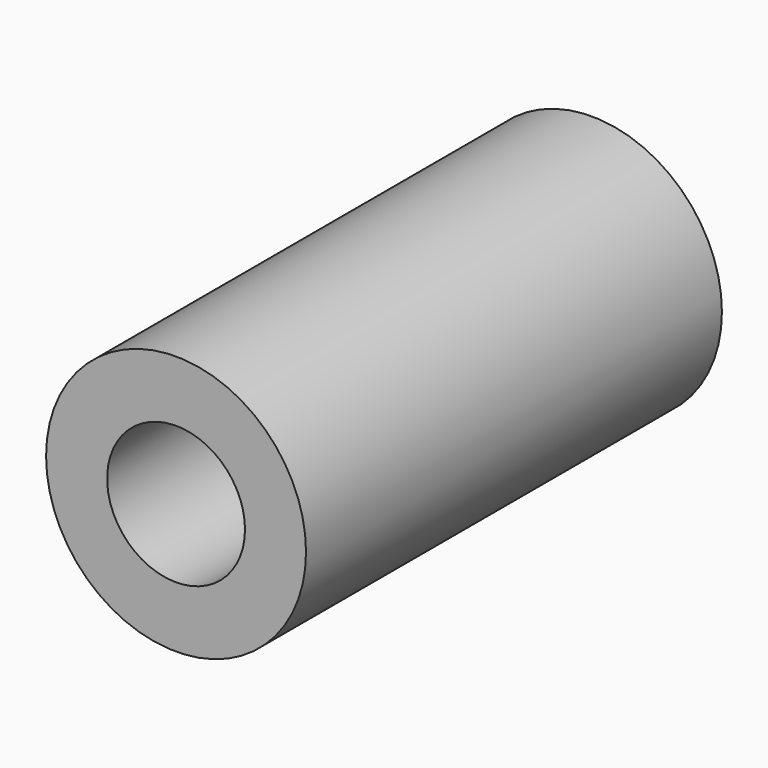
from build123d import *

# Parameters (mm, degrees)
F0_R     = 12.7
F1_DEPTH = 25.4
F3_DEPTH = 25.401
F4_DEPTH = 11.0998
F5_R     = 12.7
F5_R_2   = 6.735192
F6_DEPTH = 25.4


with BuildPart() as f1:
    # F0 (on Front) → F1 (new body)
    with BuildSketch(Plane.XZ):
        Circle(F0_R)
    extrude(amount=F1_DEPTH)

    # F2 (on face) → F3 (cut, through all)
    with BuildSketch(Plane.XZ.offset(25.4)):
        with BuildLine():
            ThreePointArc((-4.7625, 0), (-3.367596, -3.367596), (0, -4.7625))
            ThreePointArc((0, -4.7625), (3.367596, -3.367596), (4.7625, 0))
            ThreePointArc((4.7625, 0), (3.367596, 3.367596), (0, 4.7625))
            ThreePointArc((0, 4.7625), (-3.367596, 3.367596), (-4.7625, 0))
        make_face()
    extrude(amount=-F3_DEPTH, mode=Mode.SUBTRACT)

    # F2 (on face) → F4 (cut)
    with BuildSketch(Plane.XZ.offset(25.4)):
        with BuildLine():
            Line((-4.7625, 4.7625), (-4.7625, 0))
            ThreePointArc((-4.7625, 0), (-3.367596, 3.367596), (0, 4.7625))
            Line((0, 4.7625), (-4.7625, 4.7625))
        make_face()
        with BuildLine():
            ThreePointArc((0, 4.7625), (3.367596, 3.367596), (4.7625, 0))
            Line((4.7625, 0), (4.7625, 4.7625))
            Line((4.7625, 4.7625), (0, 4.7625))
        make_face()
        with BuildLine():
            Line((0, -4.7625), (4.7625, -4.7625))
            Line((4.7625, -4.7625), (4.7625, 0))
            ThreePointArc((4.7625, 0), (3.367596, -3.367596), (0, -4.7625))
        make_face()
        with BuildLine():
            Line((-4.7625, -4.7625), (0, -4.7625))
            ThreePointArc((0, -4.7625), (-3.367596, -3.367596), (-4.7625, 0))
            Line((-4.7625, 0), (-4.7625, -4.7625))
        make_face()
    extrude(amount=-F4_DEPTH, mode=Mode.SUBTRACT)

    # F5 (on face) → F6 (join)
    with BuildSketch(Plane.XZ.offset(25.4)):
        Circle(F5_R)
        Circle(F5_R_2, mode=Mode.SUBTRACT)
    extrude(amount=F6_DEPTH)


solid = f1.part
